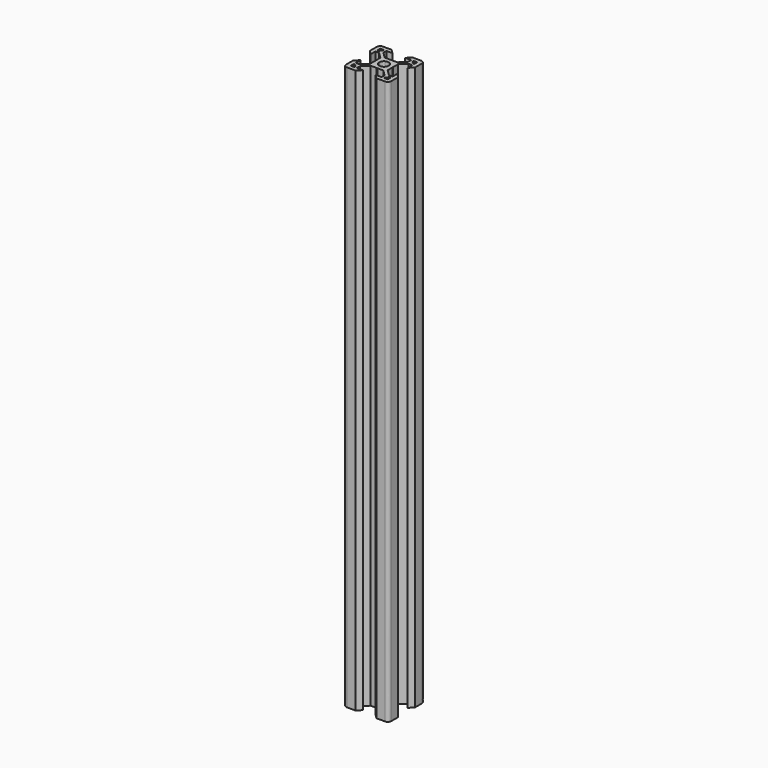
from build123d import *

# Parameters (mm, degrees)
F1_DEPTH = 250


with BuildPart() as f1:
    # F0 (on Top) → F1 (new body)
    with BuildSketch(Plane.XY):
        with BuildLine():
            Line((-4.64, 10.000001), (-8.500001, 10.000001))
            add(Edge.make_bspline(
                [(-8.500001, 10.000001), (-8.897826, 10.000001), (-9.279357, 9.841966), (-9.560661, 9.560661)],
                knots=[0, 0, 0, 0, 1, 1, 1, 1], degree=3))
            add(Edge.make_bspline(
                [(-9.560661, 9.560661), (-9.841966, 9.279357), (-10.000001, 8.897826), (-10.000001, 8.500001)],
                knots=[0, 0, 0, 0, 1, 1, 1, 1], degree=3))
            Line((-10.000001, 8.500001), (-10.000001, 4.640001))
            Line((-10.000001, 4.640001), (-8.199999, 2.84))
            Line((-8.199999, 2.84), (-8.199999, 5.499339))
            Line((-8.199999, 5.499339), (-6.56, 5.499339))
            Line((-6.56, 5.499339), (-3.90066, 2.84))
            Line((-3.90066, 2.84), (-3.90066, 0.2))
            Line((-3.90066, 0.2), (-3.70066, -1e-06))
            Line((-3.70066, -1e-06), (-3.90066, -0.200001))
            Line((-3.90066, -0.200001), (-3.90066, -2.840001))
            Line((-3.90066, -2.840001), (-6.56, -5.499341))
            Line((-6.56, -5.499341), (-8.199999, -5.499341))
            Line((-8.199999, -5.499341), (-8.199999, -2.840001))
            Line((-8.199999, -2.840001), (-10.000001, -4.640002))
            Line((-10.000001, -4.640002), (-10.000001, -8.500002))
            add(Edge.make_bspline(
                [(-10.000001, -8.500002), (-10.000001, -8.897827), (-9.841966, -9.279358), (-9.560661, -9.560662)],
                knots=[0, 0, 0, 0, 1, 1, 1, 1], degree=3))
            add(Edge.make_bspline(
                [(-9.560661, -9.560662), (-9.279356, -9.841967), (-8.897826, -10.000002), (-8.500001, -10.000002)],
                knots=[0, 0, 0, 0, 1, 1, 1, 1], degree=3))
            Line((-8.500001, -10.000002), (-4.64, -10.000002))
            Line((-4.64, -10.000002), (-2.84, -8.200001))
            Line((-2.84, -8.200001), (-5.49934, -8.200001))
            Line((-5.49934, -8.200001), (-5.49934, -6.560001))
            Line((-5.49934, -6.560001), (-2.84, -3.900661))
            Line((-2.84, -3.900661), (-0.199999, -3.900661))
            Line((-0.199999, -3.900661), (1e-06, -3.700661))
            Line((1e-06, -3.700661), (0.200001, -3.900661))
            Line((0.200001, -3.900661), (2.84, -3.900661))
            Line((2.84, -3.900661), (5.499342, -6.560001))
            Line((5.499342, -6.560001), (5.499342, -8.200001))
            Line((5.499342, -8.200001), (2.84, -8.200001))
            Line((2.84, -8.200001), (4.64, -10.000002))
            Line((4.64, -10.000002), (8.500001, -10.000002))
            add(Edge.make_bspline(
                [(8.500001, -10.000002), (9.328428, -10.000002), (10.000001, -9.328429), (10.000001, -8.500002)],
                knots=[0, 0, 0, 0, 1, 1, 1, 1], degree=3))
            Line((10.000001, -8.500002), (10.000001, -4.640002))
            Line((10.000001, -4.640002), (8.200001, -2.840001))
            Line((8.200001, -2.840001), (8.200001, -5.499341))
            Line((8.200001, -5.499341), (6.560001, -5.499341))
            Line((6.560001, -5.499341), (3.90066, -2.840001))
            Line((3.90066, -2.840001), (3.90066, -0.200001))
            Line((3.90066, -0.200001), (3.70066, -1e-06))
            Line((3.70066, -1e-06), (3.90066, 0.2))
            Line((3.90066, 0.2), (3.90066, 2.84))
            Line((3.90066, 2.84), (6.560001, 5.499339))
            Line((6.560001, 5.499339), (8.200001, 5.499339))
            Line((8.200001, 5.499339), (8.200001, 2.84))
            Line((8.200001, 2.84), (10.000001, 4.640001))
            Line((10.000001, 4.640001), (10.000001, 8.500001))
            add(Edge.make_bspline(
                [(10.000001, 8.500001), (10.000001, 9.328428), (9.328428, 10.000001), (8.500001, 10.000001)],
                knots=[0, 0, 0, 0, 1, 1, 1, 1], degree=3))
            Line((8.500001, 10.000001), (4.64, 10.000001))
            Line((4.64, 10.000001), (2.84, 8.200001))
            Line((2.84, 8.200001), (5.499342, 8.200001))
            Line((5.499342, 8.200001), (5.499342, 6.559999))
            Line((5.499342, 6.559999), (2.84, 3.90066))
            Line((2.84, 3.90066), (0.200001, 3.90066))
            Line((0.200001, 3.90066), (1e-06, 3.70066))
            Line((1e-06, 3.70066), (-0.199999, 3.90066))
            Line((-0.199999, 3.90066), (-2.84, 3.90066))
            Line((-2.84, 3.90066), (-5.49934, 6.559999))
            Line((-5.49934, 6.559999), (-5.49934, 8.200001))
            Line((-5.49934, 8.200001), (-2.84, 8.200001))
            Line((-2.84, 8.200001), (-4.64, 10.000001))
        make_face()
        Polygon((-6.56934, -8.200001), (-8.199999, -8.200001), (-8.199999, -6.569341), (-7.629999, -6.569341), (-6.56934, -7.630001), align=None, mode=Mode.SUBTRACT)
        Polygon((8.200001, -8.200001), (6.56934, -8.200001), (6.56934, -7.630001), (7.630003, -6.569341), (8.200001, -6.569341), align=None, mode=Mode.SUBTRACT)
        Polygon((-8.199999, 8.200001), (-6.56934, 8.200001), (-6.56934, 7.63), (-7.629999, 6.56934), (-8.199999, 6.56934), align=None, mode=Mode.SUBTRACT)
        with BuildLine():
            add(Edge.make_bspline(
                [(2.100001, -1e-06), (2.100276, 0.750441), (1.700078, 1.443994), (1.050223, 1.819295)],
                knots=[0, 0, 0, 0, 1, 1, 1, 1], degree=3))
            add(Edge.make_bspline(
                [(1.050223, -1.819296), (1.700078, -1.443996), (2.100276, -0.750442), (2.100001, -1e-06)],
                knots=[0, 0, 0, 0, 1, 1, 1, 1], degree=3))
            add(Edge.make_bspline(
                [(-1.050222, -1.819296), (-0.400366, -2.194596), (0.400368, -2.194596), (1.050223, -1.819296)],
                knots=[0, 0, 0, 0, 1, 1, 1, 1], degree=3))
            add(Edge.make_bspline(
                [(-2.099999, -1e-06), (-2.100275, -0.750442), (-1.700077, -1.443996), (-1.050222, -1.819296)],
                knots=[0, 0, 0, 0, 1, 1, 1, 1], degree=3))
            add(Edge.make_bspline(
                [(-1.050222, 1.819295), (-1.700077, 1.443994), (-2.100275, 0.750441), (-2.099999, -1e-06)],
                knots=[0, 0, 0, 0, 1, 1, 1, 1], degree=3))
            add(Edge.make_bspline(
                [(1.050223, 1.819295), (0.400368, 2.194595), (-0.400366, 2.194595), (-1.050222, 1.819295)],
                knots=[0, 0, 0, 0, 1, 1, 1, 1], degree=3))
        make_face(mode=Mode.SUBTRACT)
        Polygon((6.56934, 8.200001), (8.200001, 8.200001), (8.200001, 6.56934), (7.630003, 6.56934), (6.56934, 7.63), align=None, mode=Mode.SUBTRACT)
    extrude(amount=F1_DEPTH)


solid = f1.part
